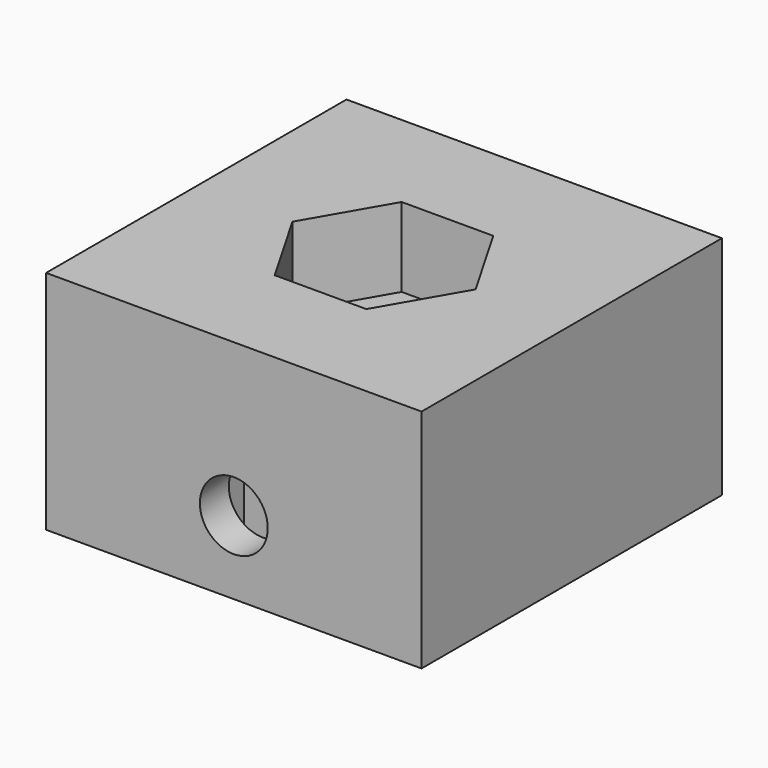
from build123d import *

# Parameters (mm, degrees)
CYLINDER_R        = 2
CYLINDER_DEPTH    = 10
PAD001_DEPTH      = 3.5
BOX_W             = 2.4
BOX_H             = 5.5
BOX_DEPTH         = 6.5
CYLINDER003_R     = 1.5
CYLINDER003_DEPTH = 5.4
CYLINDER001_R     = 1.5
CYLINDER001_DEPTH = 6
SKETCH002_W       = 5.5
SKETCH002_H       = 6
PAD002_DEPTH      = 1.2
SKETCH_W          = 16.6
SKETCH_H          = 16.6
PAD_DEPTH         = 10


with BuildPart() as cylinder:
    # Cylinder → Cylinder (new body)
    with BuildSketch(Plane.XY):
        Circle(CYLINDER_R)
    extrude(amount=CYLINDER_DEPTH)


with BuildPart() as fusion001:
    # Sketch001 → Pad001 (new body)
    with BuildSketch(Plane.XY):
        Polygon((-4.05, 0), (-2.025, -3.507403), (2.025, -3.507403), (4.05, 0), (2.025, 3.507403), (-2.025, 3.507403), align=None)
    extrude(amount=PAD001_DEPTH)


with BuildPart() as fusion001_1:
    # Body001 placement: moved
    add(fusion001.part.moved(Location((0, 0, 6.5))))

    # Fusion001: union Cylinder
    add(cylinder.part)


with BuildPart() as cube:
    # Box → Box (new body)
    with BuildSketch(Plane(origin=(-2.75, -4.5, 0), x_dir=(0, -1, 0), z_dir=(0, 0, 1))):
        with Locations((1.2, 2.75)):
            Rectangle(BOX_W, BOX_H)
    extrude(amount=BOX_DEPTH)


with BuildPart() as fusion:
    # Cylinder003 → Cylinder003 (new body)
    with BuildSketch(Plane(origin=(0, -8.5, 3.25), x_dir=(1, 0, 0), z_dir=(0, 1, 0))):
        Circle(CYLINDER003_R)
    extrude(amount=CYLINDER003_DEPTH)

    # Fusion: union Cube
    add(cube.part)


with BuildPart() as fusion_1:
    # Fusion placement: moved
    add(fusion.part.moved(Location((0, 0.2, 0))))


with BuildPart() as cylinder001:
    # Cylinder001 → Cylinder001 (new body)
    with BuildSketch(Plane(origin=(0, 3, -3), x_dir=(1, 0, 0), z_dir=(0, 0, 1))):
        Circle(CYLINDER001_R)
    extrude(amount=CYLINDER001_DEPTH)


with BuildPart() as fusion003:
    # Sketch002 → Pad002 (new body, symmetric)
    with BuildSketch(Plane.XY):
        with Locations((0, 3)):
            Rectangle(SKETCH002_W, SKETCH002_H)
    extrude(amount=PAD002_DEPTH, both=True)

    # Fusion002: union Cylinder001
    add(cylinder001.part)


with BuildPart() as fusion003_1:
    # Fusion002 placement: moved
    add(fusion003.part.moved(Location((0, 2.3, 3))))

    # Fusion003: union Fusion001, Fusion
    add(fusion001_1.part)
    add(fusion_1.part)


with BuildPart() as cut:
    # Sketch → Pad (new body)
    with BuildSketch(Plane.XY):
        Rectangle(SKETCH_W, SKETCH_H)
    extrude(amount=PAD_DEPTH)

    # Cut: cut Fusion003
    add(fusion003_1.part, mode=Mode.SUBTRACT)


solid = cut.part
